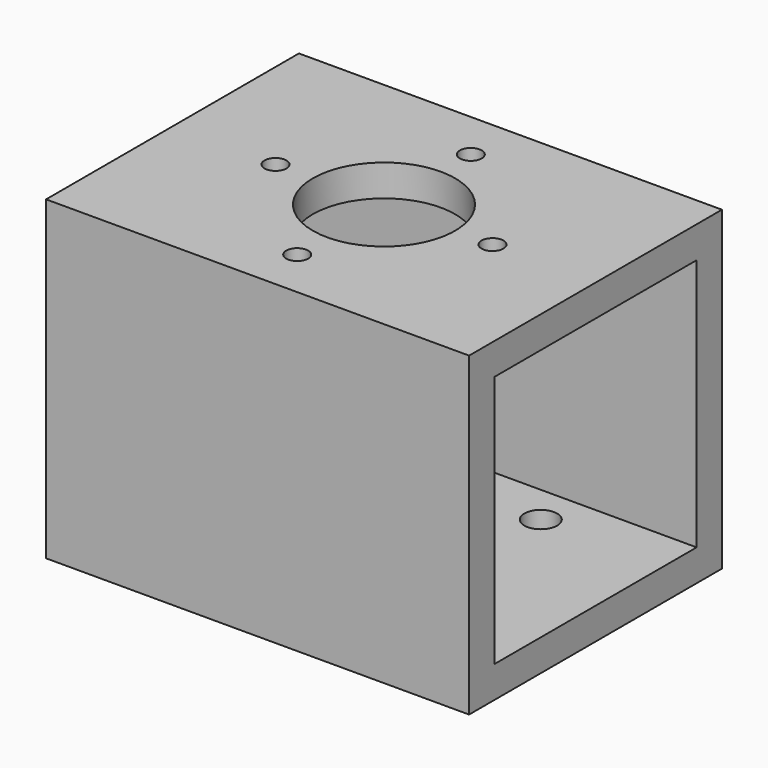
from build123d import *

# Parameters (mm, degrees)
F0_W          = 63.5
F0_H          = 63.5
F0_W_2        = 50.8
F0_H_2        = 50.8
F1_DEPTH      = 42.5
F1_DEPTH_BACK = 42.5
F3_D          = 4.4
F3_DEPTH      = 14.1
F3_TIP        = 1.3218933619
F5_D          = 28.575
F5_DEPTH      = 10
F5_TIP        = 8.5847960944
F7_D          = 6.6
F7_DEPTH      = 10
F7_TIP        = 1.9828400428
F9_D          = 18
F9_DEPTH      = 10
F9_TIP        = 5.4077455712


with BuildPart() as f1:
    # F0 (on Right) → F1 (new body, two sides)
    with BuildSketch(Plane.YZ) as f1_sk:
        Rectangle(F0_W, F0_H)
        Rectangle(F0_W_2, F0_H_2, mode=Mode.SUBTRACT)
    extrude(amount=F1_DEPTH)
    extrude(f1_sk.sketch, amount=-F1_DEPTH_BACK)

    # F3
    with Locations(Plane.XY.offset(31.75)):
        with Locations((-21.8, 0), (0, -21.8), (21.8, 0), (0, 21.8)):
            Hole(F3_D / 2, depth=F3_DEPTH)
            with Locations((0, 0, -(F3_DEPTH + F3_TIP / 2))):  # 118° drill point
                Cone(0, F3_D / 2, F3_TIP, mode=Mode.SUBTRACT)

    # F5
    with Locations(Plane.XY.offset(31.75)):
        with Locations((0, 0)):
            Hole(F5_D / 2, depth=F5_DEPTH)
            with Locations((0, 0, -(F5_DEPTH + F5_TIP / 2))):  # 118° drill point
                Cone(0, F5_D / 2, F5_TIP, mode=Mode.SUBTRACT)

    # F7
    with Locations(Plane(origin=(0, 0, -31.75), x_dir=(1, 0, 0), z_dir=(0, 0, -1))):
        with Locations((-17.5, -17.5), (-17.5, 17.5), (17.5, 17.5), (17.5, -17.5)):
            Hole(F7_D / 2, depth=F7_DEPTH)
            with Locations((0, 0, -(F7_DEPTH + F7_TIP / 2))):  # 118° drill point
                Cone(0, F7_D / 2, F7_TIP, mode=Mode.SUBTRACT)

    # F9
    with Locations(Plane(origin=(0, 0, -31.75), x_dir=(1, 0, 0), z_dir=(0, 0, -1))):
        with Locations((0, 0)):
            Hole(F9_D / 2, depth=F9_DEPTH)
            with Locations((0, 0, -(F9_DEPTH + F9_TIP / 2))):  # 118° drill point
                Cone(0, F9_D / 2, F9_TIP, mode=Mode.SUBTRACT)


solid = f1.part
